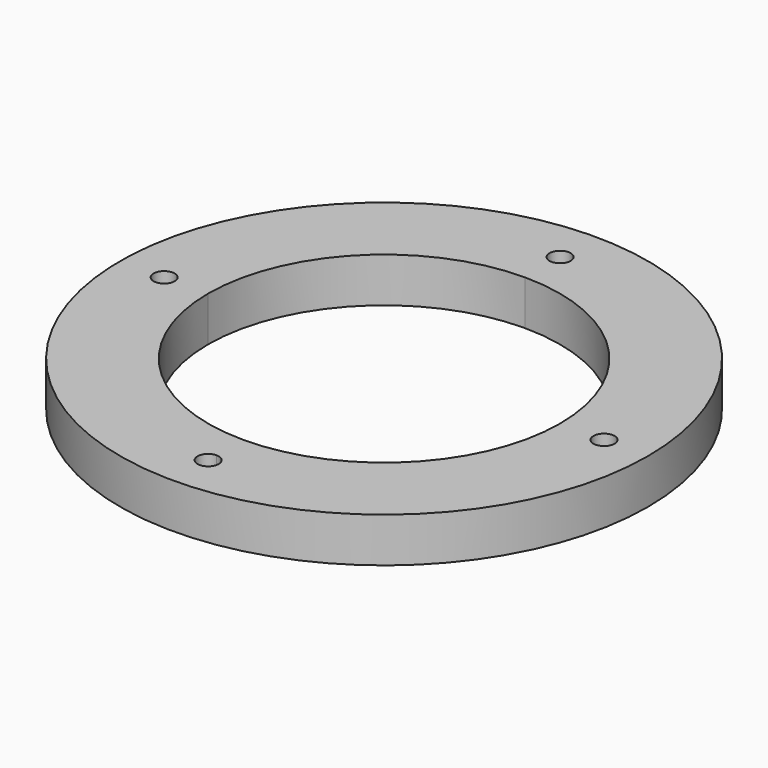
from build123d import *

# Parameters (mm, degrees)
F0_R     = 75
F0_R_2   = 3
F1_DEPTH = 12.7


with BuildPart() as f1:
    # F0 (on Top) → F1 (new body)
    with BuildSketch(Plane.XY):
        Circle(F0_R)
        with BuildLine():
            ThreePointArc((3, -62.5), (-2.12132, -64.62132), (0, -59.5))
            ThreePointArc((0, -59.5), (2.12132, -60.37868), (3, -62.5))
        make_face(mode=Mode.SUBTRACT)
        with Locations((-62.5, 0)):
            Circle(F0_R_2, mode=Mode.SUBTRACT)
        with BuildLine():
            ThreePointArc((0, 50), (35.355339, 35.355339), (50, 0))
            ThreePointArc((50, 0), (35.355339, -35.355339), (0, -50))
            ThreePointArc((0, -50), (-35.355339, -35.355339), (-50, 0))
            ThreePointArc((-50, 0), (-35.355339, 35.355339), (0, 50))
        make_face(mode=Mode.SUBTRACT)
        with BuildLine():
            ThreePointArc((65.5, 0), (62.5, -3), (59.5, 0))
            ThreePointArc((59.5, 0), (62.5, 3), (65.5, 0))
        make_face(mode=Mode.SUBTRACT)
        with BuildLine():
            ThreePointArc((3, 62.5), (2.12132, 60.37868), (0, 59.5))
            ThreePointArc((0, 59.5), (-2.12132, 64.62132), (3, 62.5))
        make_face(mode=Mode.SUBTRACT)
    extrude(amount=F1_DEPTH)


solid = f1.part
